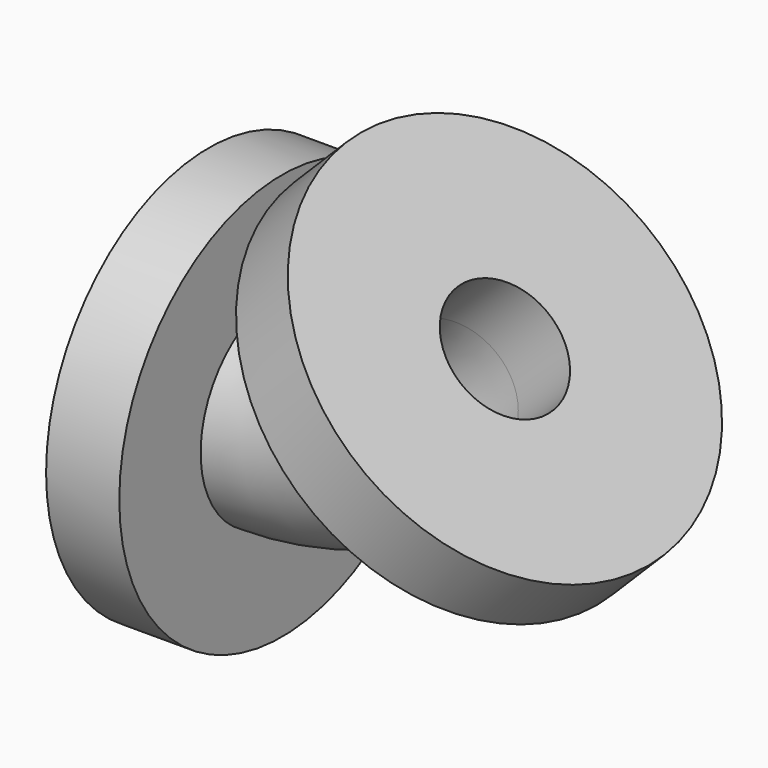
from build123d import *

# Parameters (mm, degrees)
F1_R     = 50
F1_R_2   = 25
F2_DEPTH = 18
F4_R     = 50
F5_DEPTH = 18


with BuildPart() as f2:
    # F1 (on Right) → F2 (new body)
    with BuildSketch(Plane.YZ):
        with Locations((0, -59.5)):
            Circle(F1_R)
        with Locations((0, -59.5)):
            Circle(F1_R_2, mode=Mode.SUBTRACT)
        with Locations((0, -59.5)):
            Circle(F1_R_2)
        with BuildLine():
            ThreePointArc((0, -44.5), (10.6066017178, -48.8933982822), (15, -59.5))
            ThreePointArc((15, -59.5), (-10.6066017178, -70.1066017178), (0, -44.5))
        make_face(mode=Mode.SUBTRACT)
        with BuildLine():
            ThreePointArc((0, -44.5), (-10.6066017178, -70.1066017178), (15, -59.5))
            ThreePointArc((15, -59.5), (10.6066017178, -48.8933982822), (0, -44.5))
        make_face()
    extrude(amount=-F2_DEPTH)

    # F3: sweep along a path in F0
    with BuildLine(Plane.XZ) as f3_path:
        ThreePointArc((0, -59.5), (22.7696642257, -54.9708321844), (42.0728534806, -42.0728534806))
    # F1 (on Right) → F3 (sweep)
    with BuildSketch(Plane.YZ):
        with Locations((0, -59.5)):
            Circle(F1_R_2)
        with BuildLine():
            ThreePointArc((0, -44.5), (10.6066017178, -48.8933982822), (15, -59.5))
            ThreePointArc((15, -59.5), (-10.6066017178, -70.1066017178), (0, -44.5))
        make_face(mode=Mode.SUBTRACT)
    sweep(path=f3_path.line)

    # F4 (on face) → F5 (join)
    with BuildSketch(Plane(origin=(0, 0, 0), x_dir=(0.7071067812, 0, -0.7071067812), z_dir=(0.7071067812, 0, 0.7071067812))):
        with Locations((59.5, 0)):
            Circle(F4_R)
        with BuildLine():
            ThreePointArc((59.5, 15), (70.1066017178, 10.6066017178), (74.5, 0))
            ThreePointArc((74.5, 0), (48.8933982822, -10.6066017178), (59.5, 15))
        make_face(mode=Mode.SUBTRACT)
    extrude(amount=F5_DEPTH)


solid = f2.part
